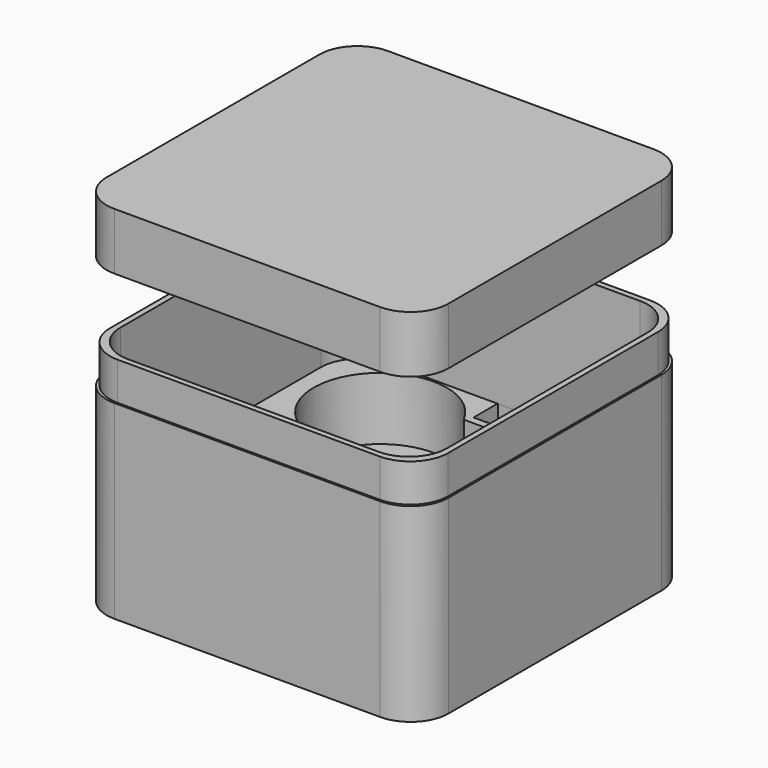
from build123d import *

# Parameters (mm, degrees)
BOX_W           = 90
BOX_H           = 90
BOX_DEPTH       = 60
BOX001_W        = 86
BOX001_H        = 86
BOX001_DEPTH    = 36
POCKET_DEPTH    = 16.5
SKETCH001_R     = 4
POCKET001_DEPTH = 6
SKETCH002_W     = 13
SKETCH002_H     = 8
SKETCH002_W_2   = 8
SKETCH002_H_2   = 13
SKETCH002_W_3   = 30
SKETCH002_H_3   = 55
POCKET002_DEPTH = 22.5
SKETCH003_W     = 90
SKETCH003_H     = 90
SKETCH003_W_2   = 89
SKETCH003_H_2   = 89
POCKET003_DEPTH = 10
FILLET_R        = 10
BOX002_W        = 90
BOX002_H        = 90
BOX002_DEPTH    = 15
FILLET001_R     = 10
THICKNESS_T     = -0.5


with BuildPart() as body:
    # Box → Box (join)
    with BuildSketch(Plane.XY):
        with Locations((45, 45)):
            Rectangle(BOX_W, BOX_H)
    extrude(amount=BOX_DEPTH)

    # Box001 → Box001 (cut)
    with BuildSketch(Plane(origin=(2, 2, 24), x_dir=(1, 0, 0), z_dir=(0, 0, 1))):
        with Locations((43, 43)):
            Rectangle(BOX001_W, BOX001_H)
    extrude(amount=BOX001_DEPTH, mode=Mode.SUBTRACT)

    # Sketch (on Face11 of Box001) → Pocket (cut)
    with BuildSketch(Plane(origin=(47, 47, 24), x_dir=(1, 0, 0), z_dir=(0, 0, 1))):
        with BuildLine():
            ThreePointArc((-7.48, 31.103157), (-35.355339, 35.355339), (-31.103157, 7.48))
            Line((-31.103157, 7.48), (-31.103157, -7.48))
            ThreePointArc((-31.103157, -7.48), (-35.355339, -35.355339), (-7.48, -31.103157))
            Line((7.48, -31.103157), (-7.48, -31.103157))
            ThreePointArc((7.48, -31.103157), (35.355339, -35.355339), (31.103157, -7.48))
            Line((31.103157, 7.48), (31.103157, -7.48))
            ThreePointArc((31.103157, 7.48), (35.355339, 35.355339), (7.48, 31.103157))
            Line((-7.48, 31.103157), (7.48, 31.103157))
        make_face()
    extrude(amount=-POCKET_DEPTH, mode=Mode.SUBTRACT)

    # Sketch001 (on Face20 of Pocket) → Pocket001 (cut)
    with BuildSketch(Plane(origin=(2, 2, 7.5), x_dir=(1, 0, 0), z_dir=(0, 0, 1))):
        with Locations((22.01903, 67.98097)):
            Circle(SKETCH001_R)
        with Locations((67.98097, 67.98097)):
            Circle(SKETCH001_R)
        with Locations((22.01903, 22.01903)):
            Circle(SKETCH001_R)
        with Locations((67.98097, 22.01903)):
            Circle(SKETCH001_R)
    extrude(amount=-POCKET001_DEPTH, mode=Mode.SUBTRACT)

    # Sketch002 (on Face11 of Pocket001) → Pocket002 (cut)
    with BuildSketch(Plane(origin=(2, 2, 24), x_dir=(1, 0, 0), z_dir=(0, 0, 1))):
        with Locations((44.98, 82.103157)):
            Rectangle(SKETCH002_W, SKETCH002_H)
        with Locations((45.02, 7.896843)):
            Rectangle(SKETCH002_W, SKETCH002_H)
        with Locations((7.896843, 45.02)):
            Rectangle(SKETCH002_W_2, SKETCH002_H_2)
        with Locations((82.103157, 44.98)):
            Rectangle(SKETCH002_W_2, SKETCH002_H_2)
        with Locations((45, 45.003157)):
            Rectangle(SKETCH002_W_3, SKETCH002_H_3)
    extrude(amount=-POCKET002_DEPTH, mode=Mode.SUBTRACT)

    # Sketch003 (on Face3 of Pocket002) → Pocket003 (cut)
    with BuildSketch(Plane(origin=(2, 2, 60), x_dir=(1, 0, 0), z_dir=(0, 0, 1))):
        with Locations((43, 43)):
            Rectangle(SKETCH003_W, SKETCH003_H)
        with Locations((43, 43)):
            Rectangle(SKETCH003_W_2, SKETCH003_H_2, mode=Mode.SUBTRACT)
    extrude(amount=-POCKET003_DEPTH, mode=Mode.SUBTRACT)

    # Fillet
    fillet_edges = [body.edges().sort_by_distance(p)[0] for p in [
        (88, 88, 42),
        (2, 88, 42),
        (2, 2, 42),
        (88, 2, 42),
        (0.5, 0.5, 55),
        (0, 0, 25),
        (90, 0, 25),
        (89.5, 0.5, 55),
        (89.5, 89.5, 55),
        (90, 90, 25),
        (0.5, 89.5, 55),
        (0, 90, 25),
    ]]
    fillet(fillet_edges, radius=FILLET_R)


with BuildPart() as body001:
    # Box002 → Box002 (join)
    with BuildSketch(Plane.XY.offset(50)):
        with Locations((45, 45)):
            Rectangle(BOX002_W, BOX002_H)
    extrude(amount=BOX002_DEPTH)

    # Fillet001
    fillet001_edges = [body001.edges().sort_by_distance(p)[0] for p in [
        (0, 0, 57.5),
        (90, 0, 57.5),
        (90, 90, 57.5),
        (0, 90, 57.5),
    ]]
    fillet(fillet001_edges, radius=FILLET001_R)

    # Thickness
    thickness_openings = [body001.faces().sort_by_distance(p)[0] for p in [
        (45, 45, 50),
    ]]
    offset(amount=THICKNESS_T, openings=thickness_openings)


with BuildPart() as body001_1:
    # Body001 placement: moved
    add(body001.part.moved(Location((0, 0, 30))))


solid = Compound([body.part, body001_1.part])
